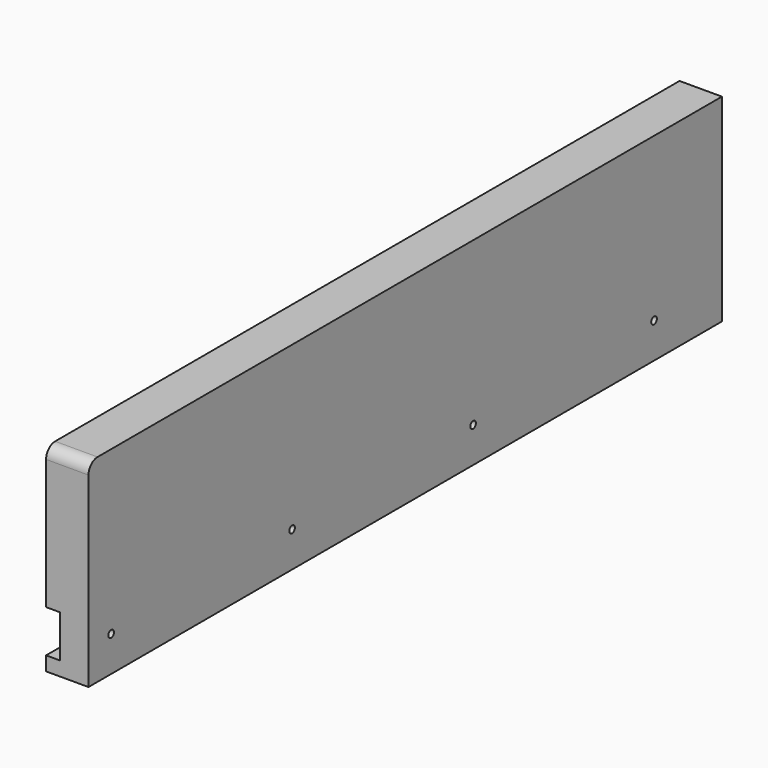
from build123d import *

# Parameters (mm, degrees)
F0_W     = 355.6
F0_H     = 88.9
F1_DEPTH = 19.05
F2_R     = 5.08
F3_W     = 355.6
F3_H     = 19.05
F4_DEPTH = 6.35
F5_R     = 1.5875
F6_DEPTH = 19.051


with BuildPart() as f1:
    # F0 (on Right) → F1 (new body)
    with BuildSketch(Plane.YZ):
        with Locations((177.8, -44.45)):
            Rectangle(F0_W, F0_H)
    extrude(amount=F1_DEPTH)

    # F2
    f2_edges = [f1.edges().sort_by_distance(p)[0] for p in [
        (9.525, 0, 0),
    ]]
    fillet(f2_edges, radius=F2_R)

    # F3 (on Right) → F4 (cut)
    with BuildSketch(Plane.YZ):
        with Locations((177.8, -73.025)):
            Rectangle(F3_W, F3_H)
    extrude(amount=F4_DEPTH, mode=Mode.SUBTRACT)

    # F5 (on Right) → F6 (cut, through all)
    with BuildSketch(Plane.YZ):
        with Locations((12.7, -73.025)):
            Circle(F5_R)
        with Locations((114.3, -73.025)):
            Circle(F5_R)
        with Locations((215.9, -73.025)):
            Circle(F5_R)
        with Locations((317.5, -73.025)):
            Circle(F5_R)
    extrude(amount=F6_DEPTH, mode=Mode.SUBTRACT)


solid = f1.part
